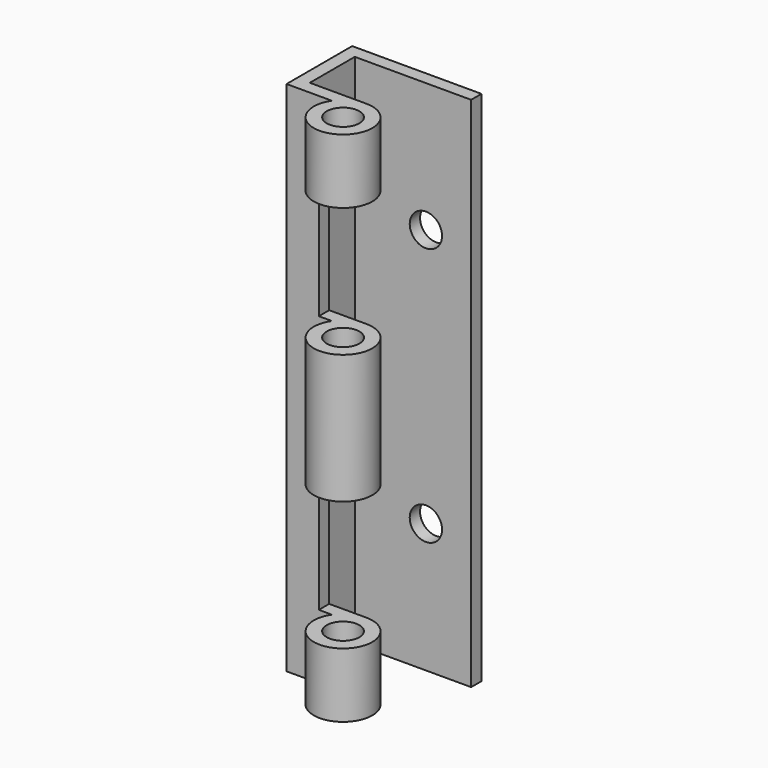
from build123d import *

# Parameters (mm, degrees)
F1_DEPTH = 50.8
F2_W     = 25.4
F2_H     = 25.4
F3_DEPTH = 11.5072
F4_R     = 3.2131
F5_DEPTH = 101.601
F6_R     = 3.175
F7_DEPTH = 2.54


with BuildPart() as f1:
    # F0 (on Top) → F1 (new body, symmetric)
    with BuildSketch(Plane.XY):
        with BuildLine():
            ThreePointArc((-4.772227, 3.2131), (2.703042, -5.078555), (0, 5.7531))
            Line((0, 5.7531), (-11.1379, 5.7531))
            Line((-11.1379, 5.7531), (-11.1379, 16.8021))
            Line((-11.1379, 16.8021), (11.7221, 16.8021))
            Line((11.7221, 16.8021), (11.7221, 19.3421))
            Line((11.7221, 19.3421), (-13.6779, 19.3421))
            Line((-13.6779, 19.3421), (-13.6779, 3.2131))
            Line((-13.6779, 3.2131), (-4.772227, 3.2131))
        make_face()
    extrude(amount=F1_DEPTH, both=True)

    # F2 (on face) → F3 (cut, through all)
    with BuildSketch(Plane(origin=(0, 5.7531, 0), x_dir=(-1, 0, 0), z_dir=(0, 1, 0))):
        with Locations((-5.3721, 25.4)):
            Rectangle(F2_W, F2_H)
        with Locations((-5.3721, -25.4)):
            Rectangle(F2_W, F2_H)
    extrude(amount=-F3_DEPTH, mode=Mode.SUBTRACT)

    # F4 (on face) → F5 (cut, through all)
    with BuildSketch(Plane.XY.offset(50.8)):
        Circle(F4_R)
    extrude(amount=-F5_DEPTH, mode=Mode.SUBTRACT)

    # F6 (on face) → F7 (cut, through all)
    with BuildSketch(Plane(origin=(0, 19.3421, 0), x_dir=(-1, 0, 0), z_dir=(0, 1, 0))):
        with Locations((-2.8321, 25.4)):
            Circle(F6_R)
        with Locations((-2.8321, -25.4)):
            Circle(F6_R)
    extrude(amount=-F7_DEPTH, mode=Mode.SUBTRACT)


solid = f1.part
